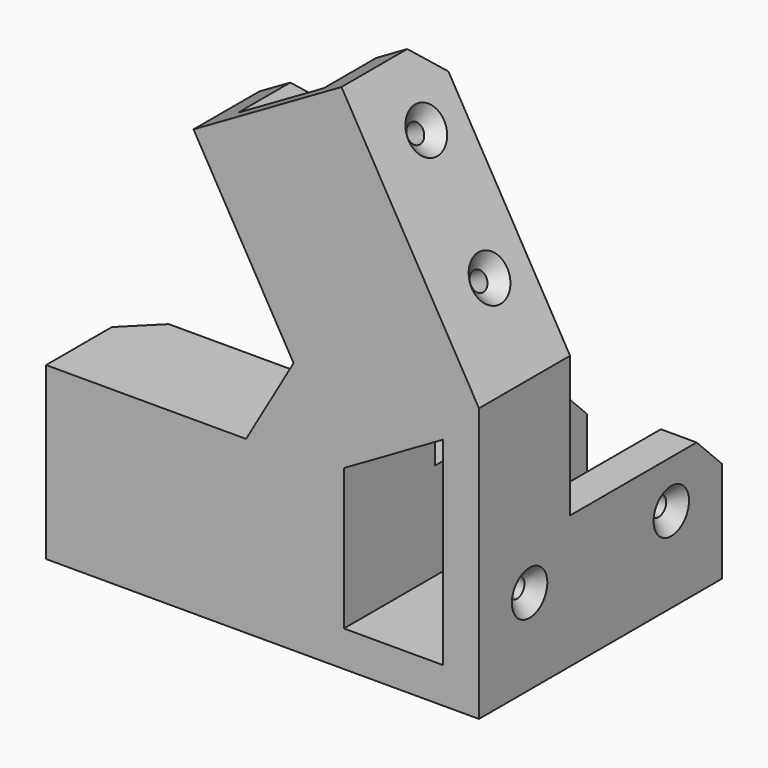
from build123d import *

# Parameters (mm, degrees)
F0_W      = 15
F0_H      = 15
F1_DEPTH  = 15
F2_W      = 15
F2_H      = 15
F3_DEPTH  = 3
F5_DEPTH  = 30
F6_R      = 1.5
F7_DEPTH  = 6.001
F8_R      = 1.5
F9_DEPTH  = 24.8215080757
F10_R     = 1.5
F11_DEPTH = 6.001
F12_SIZE  = 5
F13_SIZE  = 2
F14_W     = 15.7
F14_H     = 15.7
F15_DEPTH = 48.001
F16_W     = 15.7
F16_H     = 15.7
F17_DEPTH = 63.3466714755
F18_W     = 15.7
F18_H     = 15.7
F19_DEPTH = 40.001
F21_DEPTH = 18.001


with BuildPart() as f1:
    # F0 (on Front) → F1 (new body)
    with BuildSketch(Plane.XZ):
        Polygon((-70, 7.5), (-30, 7.5), (-30, -7.5), (-70, -7.5), (-70, -13.5), (-1.5766062413, -13.5), (-1.5766062413, 29.7307621135), (-23.3086570489, 67.3717782649), (-28.5048094716, 64.3717782649), (-8.5048094716, 29.7307621135), (-21.4951905284, 22.2307621135), (-41.4951905284, 56.8717782649), (-46.6913429511, 53.8717782649), (-30.8826859022, 26.4903810568), (-38.3826859022, 13.5), (-70, 13.5), align=None)
        with Locations((-15.0766062413, 0)):
            Rectangle(F0_W, F0_H, mode=Mode.SUBTRACT)
    extrude(amount=F1_DEPTH)

    # F2 (on face) → F3 (join)
    with BuildSketch(Plane.XZ.offset(15)):
        Polygon((-38.3826859022, 13.5), (-70, 13.5), (-70, -13.5), (-1.5766062413, -13.5), (-1.5766062413, 29.7307621135), (-23.3086570489, 67.3717782649), (-46.6913429511, 53.8717782649), (-30.8826859022, 26.4903810568), align=None)
        with Locations((-15.0766062413, 0)):
            Rectangle(F2_W, F2_H, mode=Mode.SUBTRACT)
    extrude(amount=F3_DEPTH)

    # F4 (on face) → F5 (join)
    with BuildSketch(Plane(origin=(0, 0, 0), x_dir=(-1, 0, 0), z_dir=(0, 1, 0))):
        Polygon((7.5766062413, -7.5), (7.5766062413, 7.5), (1.5766062413, 7.5), (1.5766062413, -13.5), (28.5766062413, -13.5), (28.5766062413, 7.5), (22.5766062413, 7.5), (22.5766062413, -7.5), align=None)
    extrude(amount=F5_DEPTH)

    # F6 (on face) → F7 (cut, through all)
    with BuildSketch(Plane.XY.offset(-7.5)):
        with Locations((-40, -7.5)):
            Circle(F6_R)
        with Locations((-60, -7.5)):
            Circle(F6_R)
    extrude(amount=-F7_DEPTH, mode=Mode.SUBTRACT)

    # F8 (on face) → F9 (cut, through all)
    with BuildSketch(Plane(origin=(6.4951905284, 0, 3.75), x_dir=(0, -1, 0), z_dir=(-0.8660254038, 0, -0.5))):
        with Locations((7.5, 40)):
            Circle(F8_R)
        with Locations((7.5, 60)):
            Circle(F8_R)
    extrude(amount=-F9_DEPTH, mode=Mode.SUBTRACT)

    # F10 (on face) → F11 (cut, through all)
    with BuildSketch(Plane(origin=(-7.5766062413, 0, 0), x_dir=(0, -1, 0), z_dir=(-1, 0, 0))):
        with Locations((-20, 0)):
            Circle(F10_R)
        with Locations((8, 0)):
            Circle(F10_R)
    extrude(amount=-F11_DEPTH, mode=Mode.SUBTRACT)

    # F12
    f12_edges = [f1.edges().sort_by_distance(p)[0] for p in [
        (-25.906733, 0, 65.871778),
        (-44.093267, 0, 55.371778),
        (-4.576606, 30, 7.5),
        (-25.576606, 30, 7.5),
        (-70, 0, 10.5),
        (-70, 0, -10.5),
    ]]
    chamfer(f12_edges, length=F12_SIZE)

    # F13
    f13_edges = [f1.edges().sort_by_distance(p)[0] for p in [
        (-1.576606, -6.5, 0),
        (-1.576606, 21.5, 0),
        (-8.308657, -6, 41.391016),
        (-18.308657, -6, 58.711524),
        (-41.5, -7.5, -13.5),
        (-61.5, -7.5, -13.5),
    ]]
    chamfer(f13_edges, length=F13_SIZE)

    # F14 (on face) → F15 (cut, through all)
    with BuildSketch(Plane.XZ.offset(18)):
        with Locations((-15.0766062413, 0)):
            Rectangle(F14_W, F14_H)
    extrude(amount=-F15_DEPTH, mode=Mode.SUBTRACT)

    # F16 (on face) → F17 (cut, through all)
    with BuildSketch(Plane(origin=(-15, 0, 25.9807621135), x_dir=(0.8660254038, 0, 0.5), z_dir=(-0.5, 0, 0.8660254038))):
        with Locations((0, -7.5)):
            Rectangle(F16_W, F16_H)
    extrude(amount=F17_DEPTH, mode=Mode.SUBTRACT)

    # F18 (on face) → F19 (cut, through all)
    with BuildSketch(Plane(origin=(-30, 0, 0), x_dir=(0, -1, 0), z_dir=(-1, 0, 0))):
        with Locations((7.5, 0)):
            Rectangle(F18_W, F18_H)
    extrude(amount=F19_DEPTH, mode=Mode.SUBTRACT)

    # F20 (on face) → F21 (cut, through all)
    with BuildSketch(Plane(origin=(0, 0, 0), x_dir=(-1, 0, 0), z_dir=(0, 1, 0))):
        Polygon((7.2266062413, 23.5405298623), (7.2266062413, 7.85), (22.9266062413, 7.85), (22.9266062413, 14.4761306361), align=None)
    extrude(amount=-F21_DEPTH, mode=Mode.SUBTRACT)


solid = f1.part
